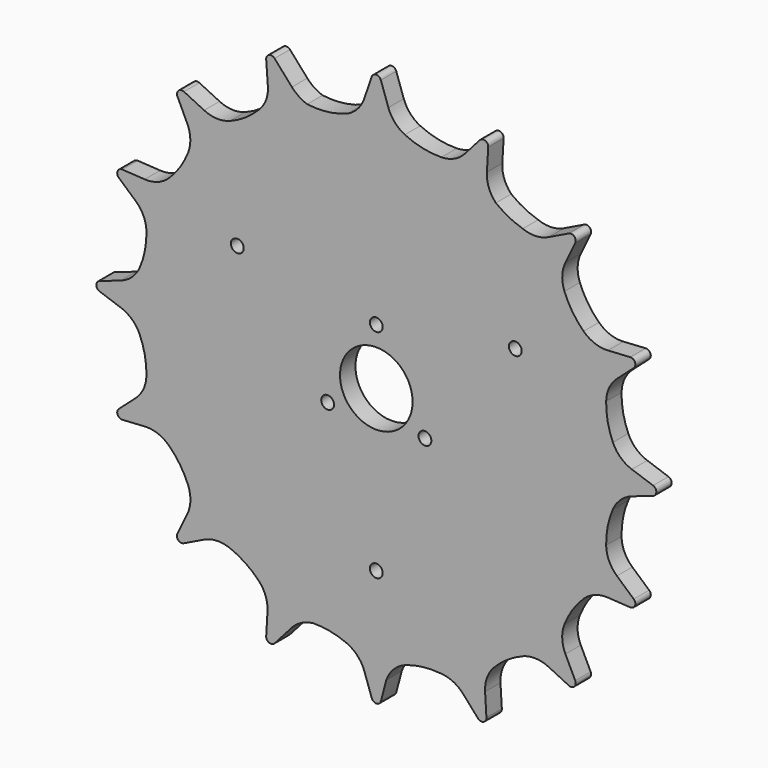
from build123d import *

# Parameters (mm, degrees)
F0_R     = 4
F0_R_2   = 22.606
F1_DEPTH = 12


with BuildPart() as f1:
    # F0 (on Front) → F1 (new body)
    with BuildSketch(Plane.XZ):
        with BuildLine():
            ThreePointArc((17.802502, 144.956856), (11.512632, 149.678862), (7.529827, 156.460976))
            Line((7.529827, 156.460976), (2.835124, 170.030854))
            ThreePointArc((2.835124, 170.030854), (0, 172.05), (-2.835124, 170.030854))
            Line((-2.835124, 170.030854), (-7.529827, 156.460976))
            ThreePointArc((-7.529827, 156.460976), (-11.512632, 149.678862), (-17.802502, 144.956856))
            ThreePointArc((-17.802502, 144.956856), (-30.241911, 141.830071), (-43.068077, 141.901717))
            ThreePointArc((-43.068077, 141.901717), (-48.22329, 144.439154), (-52.558881, 148.209759))
            Line((-52.558881, 148.209759), (-63.367118, 160.390291))
            ThreePointArc((-63.367118, 160.390291), (-66.759125, 161.170784), (-68.605744, 158.220382))
            Line((-68.605744, 158.220382), (-67.53653, 143.678524))
            ThreePointArc((-67.53653, 143.678524), (-68.731889, 135.702982), (-73.239492, 129.015707))
            ThreePointArc((-73.239492, 129.015707), (-81.548929, 122.076108), (-91.140166, 117.054859))
            ThreePointArc((-91.140166, 117.054859), (-99.243222, 115.675861), (-107.216606, 117.672431))
            Line((-107.216606, 117.672431), (-119.808645, 123.791189))
            ThreePointArc((-119.808645, 123.791189), (-123.3221, 123.180437), (-123.769366, 119.642452))
            Line((-123.769366, 119.642452), (-117.840644, 107.121025))
            ThreePointArc((-117.840644, 107.121025), (-115.861515, 99.254778), (-117.195431, 91.253812))
            ThreePointArc((-117.195431, 91.253812), (-122.21668, 81.662575), (-129.156279, 73.353138))
            ThreePointArc((-129.156279, 73.353138), (-136.114807, 68.978205), (-144.245307, 67.771513))
            Line((-144.245307, 67.771513), (-158.220382, 68.605744))
            ThreePointArc((-158.220382, 68.605744), (-161.170784, 66.759125), (-160.390291, 63.367118))
            Line((-160.390291, 63.367118), (-149.918532, 54.075138))
            ThreePointArc((-149.918532, 54.075138), (-145.022659, 47.472746), (-143.195782, 39.458779))
            ThreePointArc((-143.195782, 39.458779), (-144.164403, 28.676083), (-147.395873, 18.343495))
            ThreePointArc((-147.395873, 18.343495), (-152.1505, 11.638671), (-159.200322, 7.412425))
            Line((-159.200322, 7.412425), (-172.430854, 2.835124))
            ThreePointArc((-172.430854, 2.835124), (-174.45, 0), (-172.430854, -2.835124))
            Line((-172.430854, -2.835124), (-159.200322, -7.412425))
            ThreePointArc((-159.200322, -7.412425), (-152.1505, -11.638671), (-147.395873, -18.343495))
            ThreePointArc((-147.395873, -18.343495), (-144.164403, -28.676083), (-143.195782, -39.458779))
            ThreePointArc((-143.195782, -39.458779), (-145.022659, -47.472746), (-149.918532, -54.075138))
            Line((-149.918532, -54.075138), (-160.390291, -63.367118))
            ThreePointArc((-160.390291, -63.367118), (-161.170784, -66.759125), (-158.220382, -68.605744))
            Line((-158.220382, -68.605744), (-144.245307, -67.771513))
            ThreePointArc((-144.245307, -67.771513), (-136.114807, -68.978205), (-129.156279, -73.353138))
            ThreePointArc((-129.156279, -73.353138), (-122.21668, -81.662575), (-117.195431, -91.253812))
            ThreePointArc((-117.195431, -91.253812), (-115.816433, -99.356868), (-117.813003, -107.330252))
            Line((-117.813003, -107.330252), (-123.931761, -119.922291))
            ThreePointArc((-123.931761, -119.922291), (-123.354778, -123.354778), (-119.922291, -123.931761))
            Line((-119.922291, -123.931761), (-107.330252, -117.813003))
            ThreePointArc((-107.330252, -117.813003), (-99.356868, -115.816433), (-91.253812, -117.195431))
            ThreePointArc((-91.253812, -117.195431), (-81.662575, -122.21668), (-73.353138, -129.156279))
            ThreePointArc((-73.353138, -129.156279), (-68.978205, -136.114807), (-67.771513, -144.245307))
            Line((-67.771513, -144.245307), (-68.605744, -158.220382))
            ThreePointArc((-68.605744, -158.220382), (-66.759125, -161.170784), (-63.367118, -160.390291))
            Line((-63.367118, -160.390291), (-54.075138, -149.918532))
            ThreePointArc((-54.075138, -149.918532), (-47.615399, -144.248208), (-39.458779, -141.537052))
            ThreePointArc((-39.458779, -141.537052), (-28.676083, -142.505673), (-18.343495, -145.737143))
            ThreePointArc((-18.343495, -145.737143), (-11.638671, -150.49177), (-7.412425, -157.541592))
            Line((-7.412425, -157.541592), (-2.835124, -170.772123))
            ThreePointArc((-2.835124, -170.772123), (0, -172.79127), (2.835124, -170.772123))
            Line((2.835124, -170.772123), (6.228962, -157.864794))
            ThreePointArc((6.228962, -157.864794), (10.92106, -150.437277), (18.343495, -145.737143))
            ThreePointArc((18.343495, -145.737143), (28.766653, -143.349083), (39.458779, -143.195782))
            ThreePointArc((39.458779, -143.195782), (47.472746, -145.022659), (54.075138, -149.918532))
            Line((54.075138, -149.918532), (63.367118, -160.390291))
            ThreePointArc((63.367118, -160.390291), (66.759125, -161.170784), (68.605744, -158.220382))
            Line((68.605744, -158.220382), (67.771513, -144.245307))
            ThreePointArc((67.771513, -144.245307), (68.978205, -136.114807), (73.353138, -129.156279))
            ThreePointArc((73.353138, -129.156279), (81.662575, -122.21668), (91.253812, -117.195431))
            ThreePointArc((91.253812, -117.195431), (99.356868, -115.816433), (107.330252, -117.813003))
            Line((107.330252, -117.813003), (119.922291, -123.931761))
            ThreePointArc((119.922291, -123.931761), (123.354778, -123.354778), (123.931761, -119.922291))
            Line((123.931761, -119.922291), (117.813003, -107.330252))
            ThreePointArc((117.813003, -107.330252), (115.816433, -99.356868), (117.195431, -91.253812))
            ThreePointArc((117.195431, -91.253812), (122.21668, -81.662575), (129.156279, -73.353138))
            ThreePointArc((129.156279, -73.353138), (136.114807, -68.978205), (144.245307, -67.771513))
            Line((144.245307, -67.771513), (158.220382, -68.605744))
            ThreePointArc((158.220382, -68.605744), (161.170784, -66.759125), (160.390291, -63.367118))
            Line((160.390291, -63.367118), (149.918532, -54.075138))
            ThreePointArc((149.918532, -54.075138), (145.022659, -47.472746), (143.195782, -39.458779))
            ThreePointArc((143.195782, -39.458779), (144.164403, -28.676083), (147.395873, -18.343495))
            ThreePointArc((147.395873, -18.343495), (152.1505, -11.638671), (159.200322, -7.412425))
            Line((159.200322, -7.412425), (172.430854, -2.835124))
            ThreePointArc((172.430854, -2.835124), (174.45, 0), (172.430854, 2.835124))
            Line((172.430854, 2.835124), (159.200322, 7.412425))
            ThreePointArc((159.200322, 7.412425), (152.1505, 11.638671), (147.395873, 18.343495))
            ThreePointArc((147.395873, 18.343495), (144.164403, 28.676083), (143.195782, 39.458779))
            ThreePointArc((143.195782, 39.458779), (145.022659, 47.472746), (149.918532, 54.075138))
            Line((149.918532, 54.075138), (160.390291, 63.367118))
            ThreePointArc((160.390291, 63.367118), (161.170784, 66.759125), (158.220382, 68.605744))
            Line((158.220382, 68.605744), (144.245307, 67.771513))
            ThreePointArc((144.245307, 67.771513), (136.114807, 68.978205), (129.156279, 73.353138))
            ThreePointArc((129.156279, 73.353138), (122.222235, 81.705182), (117.22101, 91.339774))
            ThreePointArc((117.22101, 91.339774), (115.842012, 99.442829), (117.838582, 107.416213))
            Line((117.838582, 107.416213), (123.95734, 120.008252))
            ThreePointArc((123.95734, 120.008252), (123.380357, 123.44074), (119.94787, 124.017723))
            Line((119.94787, 124.017723), (107.35583, 117.898965))
            ThreePointArc((107.35583, 117.898965), (99.382446, 115.902395), (91.279391, 117.281393))
            ThreePointArc((91.279391, 117.281393), (82.47428, 120.828447), (74.484519, 125.95439))
            ThreePointArc((74.484519, 125.95439), (70.109586, 132.912918), (68.902895, 141.043418))
            Line((68.902895, 141.043418), (69.737125, 155.018493))
            ThreePointArc((69.737125, 155.018493), (67.890506, 157.968896), (64.498499, 157.188402))
            Line((64.498499, 157.188402), (55.206519, 146.716643))
            ThreePointArc((55.206519, 146.716643), (48.58216, 141.810683), (40.541822, 139.993122))
            ThreePointArc((40.541822, 139.993122), (28.884055, 141.155145), (17.802502, 144.956856))
        make_face()
        with Locations((-30.310889, -17.5)):
            Circle(F0_R, mode=Mode.SUBTRACT)
        with Locations((0, -100)):
            Circle(F0_R, mode=Mode.SUBTRACT)
        with Locations((30.310889, -17.5)):
            Circle(F0_R, mode=Mode.SUBTRACT)
        with Locations((-86.60254, 50)):
            Circle(F0_R, mode=Mode.SUBTRACT)
        Circle(F0_R_2, mode=Mode.SUBTRACT)
        with Locations((0, 35)):
            Circle(F0_R, mode=Mode.SUBTRACT)
        with Locations((86.60254, 50)):
            Circle(F0_R, mode=Mode.SUBTRACT)
    extrude(amount=F1_DEPTH)


solid = f1.part
